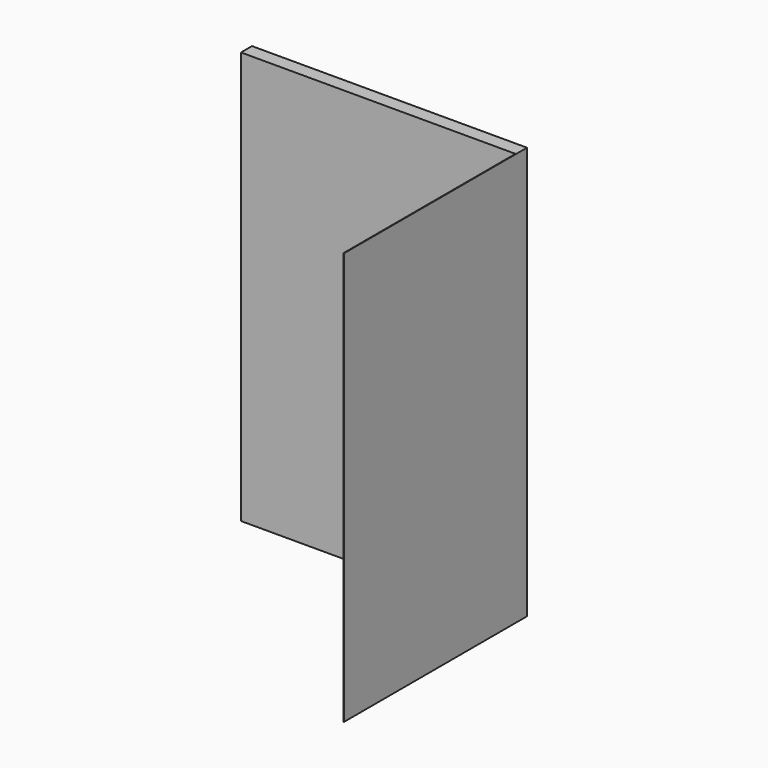
from build123d import *

# Parameters (mm, degrees)
F0_W     = 2032
F0_H     = 3048
F1_DEPTH = 101.6
F2_W     = 1588.506153
F2_H     = 3048
F3_DEPTH = 4


with BuildPart() as f1:
    # F0 (on Front) → F1 (new body)
    with BuildSketch(Plane.XZ):
        with Locations((-1016, 92.801381)):
            Rectangle(F0_W, F0_H)
    extrude(amount=F1_DEPTH)

    # F2 (on face) → F3 (join)
    with BuildSketch(Plane.YZ):
        with Locations((-895.853076, 92.801381)):
            Rectangle(F2_W, F2_H)
    extrude(amount=-F3_DEPTH)


solid = f1.part
